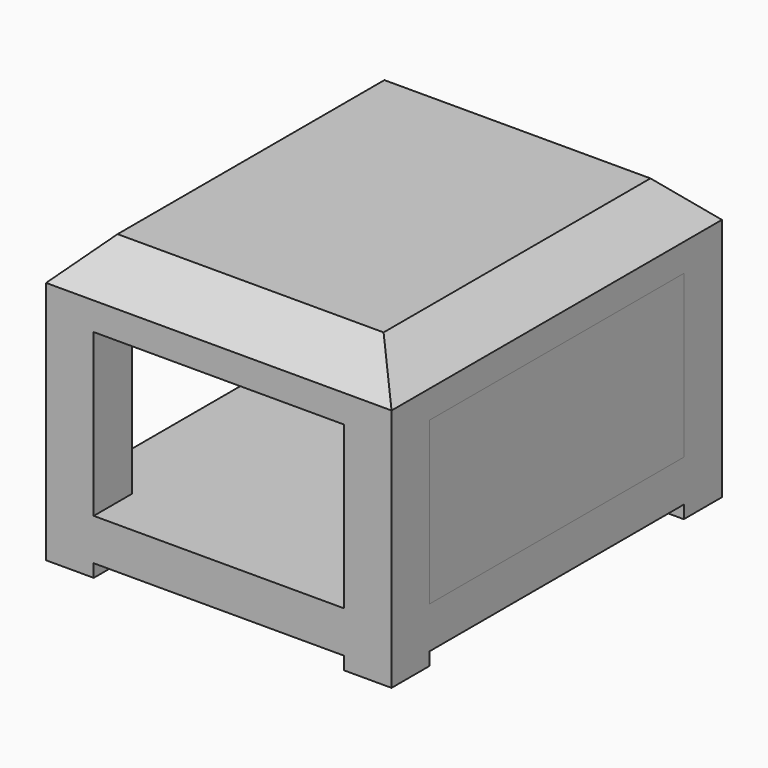
from build123d import *

# Parameters (mm, degrees)
F0_W      = 220.98
F0_H      = 264.16
F1_DEPTH  = 53.34
F2_W      = 60.96
F2_H      = 60.96
F3_DEPTH  = 69.85
F4_W      = 60.96
F4_H      = 60.96
F5_DEPTH  = 137.16
F6_W      = 60.96
F6_H      = 60.96
F7_DEPTH  = 7.62
F8_W      = 441.96
F8_H      = 528.32
F9_DEPTH  = 78.74
F10_SIZE  = 50.8
F11_W     = 406.4
F11_H     = 207.01
F12_DEPTH = 60.96


with BuildPart() as f1:
    # F0 (on Top) → F1 (new body)
    with BuildSketch(Plane.XY):
        with Locations((110.49, -132.08)):
            Rectangle(F0_W, F0_H)
        with Locations((110.49, 132.08)):
            Rectangle(F0_W, F0_H)
        with Locations((-110.49, 132.08)):
            Rectangle(F0_W, F0_H)
        with Locations((-110.49, -132.08)):
            Rectangle(F0_W, F0_H)
    extrude(amount=F1_DEPTH)

    # F2 (on face) → F3 (join, symmetric)
    with BuildSketch(Plane.XY.offset(53.34)):
        with Locations((-190.5, -233.68)):
            Rectangle(F2_W, F2_H)
        with Locations((-190.5, 233.68)):
            Rectangle(F2_W, F2_H)
        with Locations((190.5, 233.68)):
            Rectangle(F2_W, F2_H)
        with Locations((190.5, -233.68)):
            Rectangle(F2_W, F2_H)
    extrude(amount=F3_DEPTH, both=True)

    # F4 (on face) → F5 (join)
    with BuildSketch(Plane.XY.offset(123.19)):
        with Locations((-190.5, -233.68)):
            Rectangle(F4_W, F4_H)
        with Locations((-190.5, 233.68)):
            Rectangle(F4_W, F4_H)
        with Locations((190.5, 233.68)):
            Rectangle(F4_W, F4_H)
        with Locations((190.5, -233.68)):
            Rectangle(F4_W, F4_H)
    extrude(amount=F5_DEPTH)

    # F6 (on face) → F7 (join)
    with BuildSketch(Plane.XY.offset(260.35)):
        Polygon((-160.02, 264.16), (-160.02, 203.2), (-220.98, 203.2), (-220.98, -203.2), (-160.02, -203.2), (-160.02, -264.16), (160.02, -264.16), (160.02, -203.2), (220.98, -203.2), (220.98, 203.2), (160.02, 203.2), (160.02, 264.16), align=None)
        with Locations((-190.5, 233.68)):
            Rectangle(F6_W, F6_H)
        with Locations((-190.5, -233.68)):
            Rectangle(F6_W, F6_H)
        with Locations((190.5, 233.68)):
            Rectangle(F6_W, F6_H)
        with Locations((190.5, -233.68)):
            Rectangle(F6_W, F6_H)
    extrude(amount=F7_DEPTH)

    # F8 (on face) → F9 (join)
    with BuildSketch(Plane.XY.offset(267.97)):
        Rectangle(F8_W, F8_H)
    extrude(amount=F9_DEPTH)

    # F10
    f10_edges = [f1.edges().sort_by_distance(p)[0] for p in [
        (-220.98, 0, 346.71),
        (0, 264.16, 346.71),
        (220.98, 0, 346.71),
        (0, -264.16, 346.71),
    ]]
    chamfer(f10_edges, length=F10_SIZE)


with BuildPart() as f12:
    # F11 (on face) → F12 (new body)
    with BuildSketch(Plane.YZ.offset(220.98)):
        with Locations((0, 156.845)):
            Rectangle(F11_W, F11_H)
    extrude(amount=-F12_DEPTH)


solid = Compound([f1.part, f12.part])
